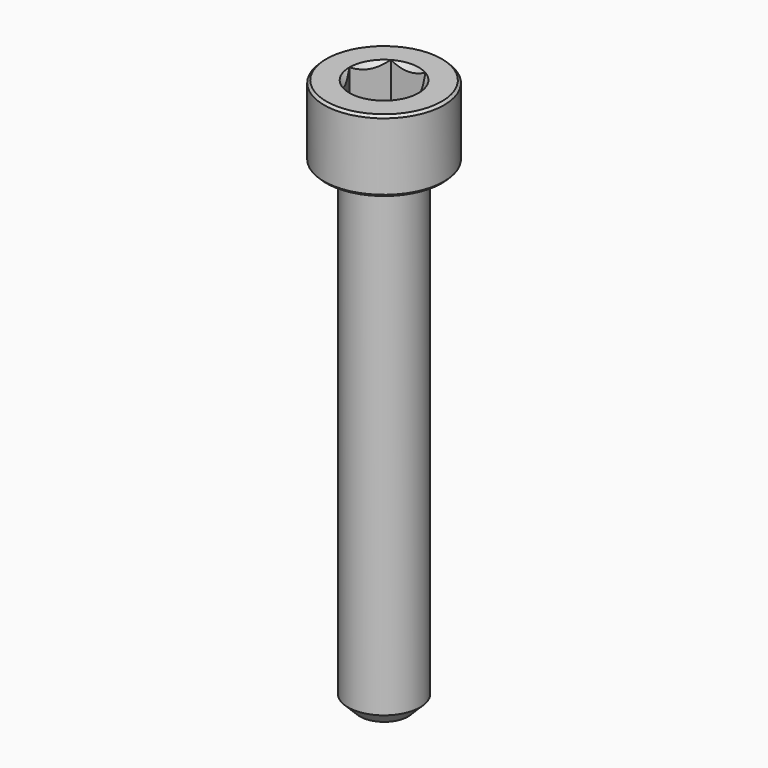
from build123d import *

# Parameters (mm, degrees)
SKETCH001_R     = 6
POCKET_DEPTH    = 8.820854
CHAMFER_SIZE    = 0.2
CHAMFER001_SIZE = 1


with BuildPart() as pocket:
    # Sketch003 → Revolution001 (revolve)
    with BuildSketch(Plane.XZ):
        Polygon((0, 1.180146), (5, 3), (5, 10), (0, 10), align=None)
    revolve(axis=Axis((0, 0, 0), (0, 0, 1)))

    # Sketch001 → Pocket (cut, through all)
    with BuildSketch(Plane(origin=(0, 0, 10), x_dir=(-1, 0, 0), z_dir=(0, 0, 1))):
        Circle(SKETCH001_R)
        Polygon((-1.443376, 2.5), (1.443376, 2.5), (2.886751, 0), (1.443376, -2.5), (-1.443376, -2.5), (-2.886751, 0), align=None, mode=Mode.SUBTRACT)
    extrude(amount=-POCKET_DEPTH, mode=Mode.SUBTRACT)


with BuildPart() as chamfer001:
    # Sketch → Revolution (revolve)
    with BuildSketch(Plane.XZ):
        Polygon((2.88675, 6), (5, 6), (5, 0), (3, 0), (3, -40), (0, -40), (0, 3.113247), align=None)
    revolve(axis=Axis((0, 0, 0), (0, 0, 1)))

    # Cut: cut Pocket
    add(pocket.part, mode=Mode.SUBTRACT)

    # Chamfer
    chamfer_edges = [chamfer001.edges().sort_by_distance(p)[0] for p in [
        (-5, 0, 6),
        (-5, 0, 0),
    ]]
    chamfer(chamfer_edges, length=CHAMFER_SIZE)

    # Chamfer001
    chamfer001_edges = [chamfer001.edges().sort_by_distance(p)[0] for p in [
        (-3, 0, -40),
    ]]
    chamfer(chamfer001_edges, length=CHAMFER001_SIZE)


solid = chamfer001.part
